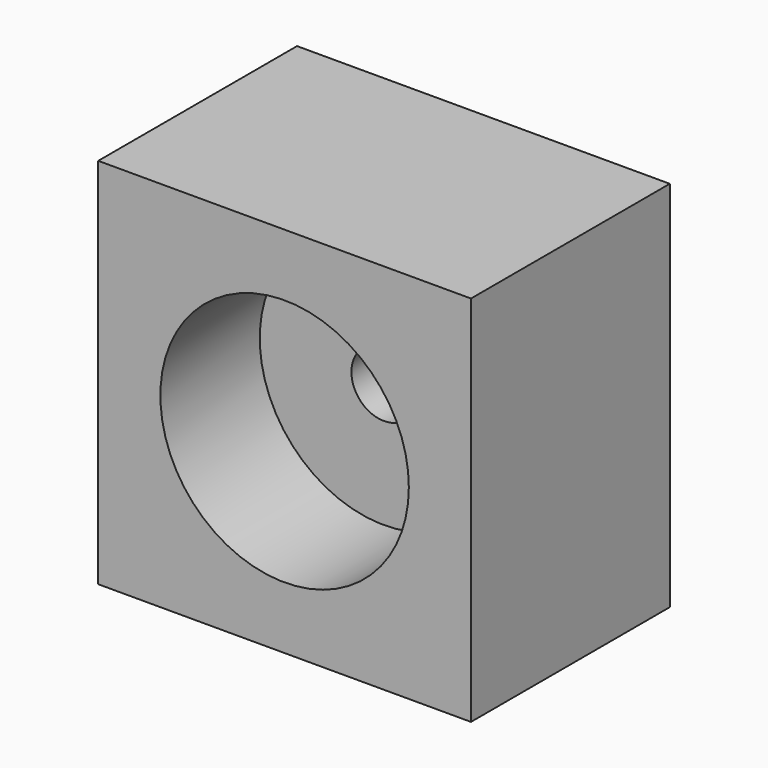
from build123d import *

# Parameters (mm, degrees)
F0_W     = 30
F0_H     = 30
F1_DEPTH = 10
F2_R     = 10
F3_DEPTH = 10
F5_D     = 5.25


with BuildPart() as f1:
    # F0 (on Front) → F1 (new body, symmetric)
    with BuildSketch(Plane.XZ):
        Rectangle(F0_W, F0_H)
    extrude(amount=F1_DEPTH, both=True)

    # F2 (on face) → F3 (cut)
    with BuildSketch(Plane.XZ.offset(10)):
        Circle(F2_R)
    extrude(amount=-F3_DEPTH, mode=Mode.SUBTRACT)

    # F5 (through all)
    with Locations(Plane(origin=(0, 10, 0), x_dir=(-1, 0, 0), z_dir=(0, 1, 0))):
        with Locations((0, 0)):
            Hole(F5_D / 2)


solid = f1.part
